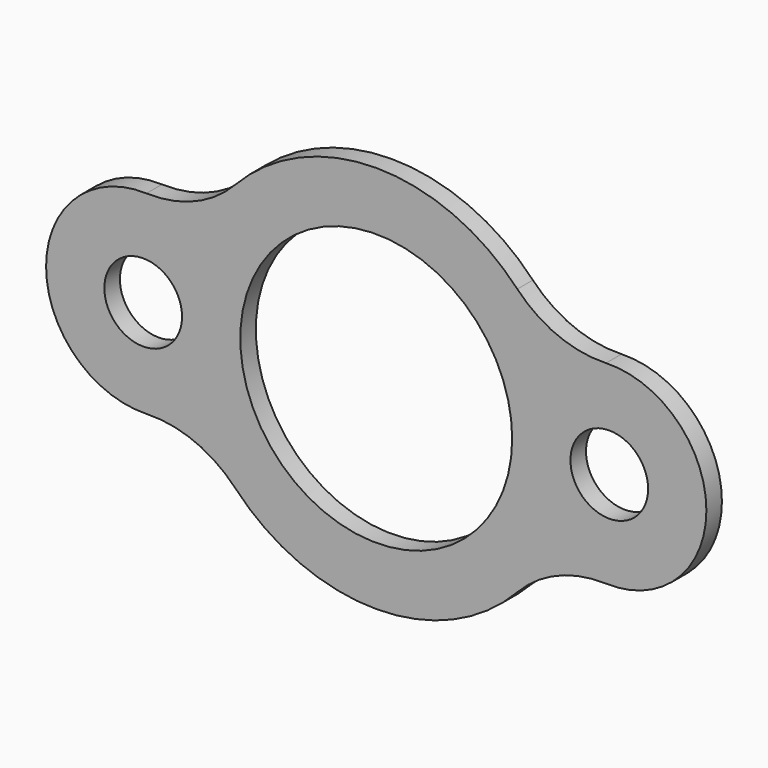
from build123d import *

# Parameters (mm, degrees)
F0_R     = 12.7
F0_R_2   = 44.45
F1_DEPTH = 6.35


with BuildPart() as f1:
    # F0 (on Front) → F1 (new body)
    with BuildSketch(Plane.XZ):
        with BuildLine():
            ThreePointArc((-107.721534, -8.993303), (-91.951444, -11.82639), (-78.740639, -20.892632))
            ThreePointArc((-78.740639, -20.892632), (-32.60392, -40.761758), (13.532798, -20.892632))
            ThreePointArc((13.532798, -20.892632), (26.743603, -11.82639), (42.513693, -8.993303))
            ThreePointArc((42.513693, -8.993303), (75.34608, 22.738242), (42.513693, 54.469787))
            ThreePointArc((42.513693, 54.469787), (26.743603, 57.302873), (13.532798, 66.369116))
            ThreePointArc((13.532798, 66.369116), (-32.60392, 86.238242), (-78.740639, 66.369116))
            ThreePointArc((-78.740639, 66.369116), (-91.951444, 57.302873), (-107.721534, 54.469787))
            ThreePointArc((-107.721534, 54.469787), (-140.55392, 22.738242), (-107.721534, -8.993303))
        make_face()
        with Locations((-108.80392, 22.738242)):
            Circle(F0_R, mode=Mode.SUBTRACT)
        with Locations((-32.60392, 22.738242)):
            Circle(F0_R_2, mode=Mode.SUBTRACT)
        with Locations((43.59608, 22.738242)):
            Circle(F0_R, mode=Mode.SUBTRACT)
    extrude(amount=F1_DEPTH)


solid = f1.part
